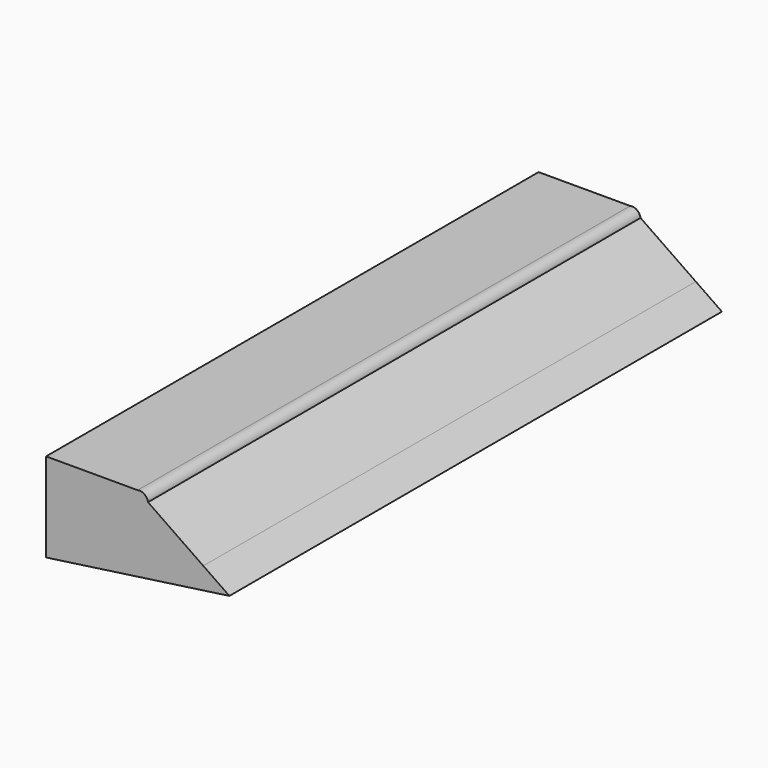
from build123d import *

# Parameters (mm, degrees)
F1_DEPTH = 508


with BuildPart() as f1:
    # F0 (on Front) → F1 (new body)
    with BuildSketch(Plane.XZ):
        with BuildLine():
            Line((0, 38.329016), (-75.492136, 38.329016))
            Line((-75.492136, 38.329016), (-75.492136, -20.949349))
            ThreePointArc((-75.492136, -20.949349), (-65.252964, -23.208546), (-62.284739, -33.265098))
            Line((-62.284739, -33.265098), (41.349498, -18.688415))
            ThreePointArc((41.349498, -18.688415), (44.09585, -6.425493), (54.247424, 0.981749))
            Line((54.247424, 0.981749), (8.62602, 32.390333))
            Line((8.62602, 32.390333), (0, 38.329016))
        make_face()
        with BuildLine():
            ThreePointArc((8.62602, 32.390333), (5.60797, 37.240622), (0, 38.329016))
            Line((0, 38.329016), (8.62602, 32.390333))
        make_face()
        with BuildLine():
            ThreePointArc((-62.284739, -33.265098), (-65.252964, -23.208546), (-75.492136, -20.949349))
            Line((-75.492136, -20.949349), (-75.492136, -35.122786))
            Line((-75.492136, -35.122786), (-62.284739, -33.265098))
        make_face()
        with BuildLine():
            Line((75.783603, -13.845082), (54.247424, 0.981749))
            ThreePointArc((54.247424, 0.981749), (44.09585, -6.425493), (41.349498, -18.688415))
            Line((41.349498, -18.688415), (75.783603, -13.845082))
        make_face()
    extrude(amount=F1_DEPTH)


solid = f1.part
